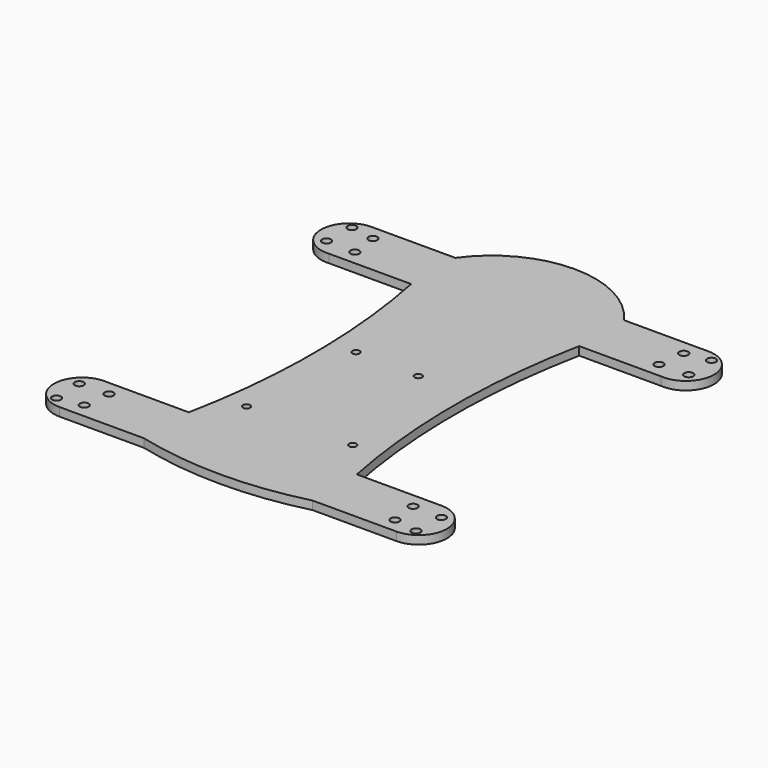
from build123d import *

# Parameters (mm, degrees)
F0_R     = 2
F0_R_2   = 1.651
F1_DEPTH = 3.81


with BuildPart() as f1:
    # F0 (on Top) → F1 (new body)
    with BuildSketch(Plane.XY):
        with BuildLine():
            ThreePointArc((37.946905, 88.097033), (-0.153095, 107.714284), (-38.253095, 88.097033))
            Line((-38.253095, 88.097033), (-37.946905, 88.097033))
            Line((-37.946905, 88.097033), (37.946905, 88.097033))
        make_face()
        Polygon((-37.946905, 88.097033), (-38.253095, 88.097033), (-37.946905, 62.742965), (37.946905, 62.742965), (37.946905, 88.097033), align=None)
        with BuildLine():
            Line((-37.946905, 62.742965), (-38.253095, 88.097033))
            Line((-38.253095, 88.097033), (-76.046905, 88.097033))
            ThreePointArc((-76.046905, 88.097033), (-88.735417, 74.856974), (-74.967762, 62.742965))
            Line((-74.967762, 62.742965), (-37.946905, 62.742965))
        make_face()
        with Locations((-81.778049, 69.815444)):
            Circle(F0_R, mode=Mode.SUBTRACT)
        with Locations((-68.661721, 69.381662)):
            Circle(F0_R, mode=Mode.SUBTRACT)
        with Locations((-70.195213, 81.486084)):
            Circle(F0_R, mode=Mode.SUBTRACT)
        with Locations((-81.191262, 83.413343)):
            Circle(F0_R, mode=Mode.SUBTRACT)
        with BuildLine():
            Line((76.046905, 88.097033), (37.946905, 88.097033))
            Line((37.946905, 88.097033), (37.946905, 62.742965))
            Line((37.946905, 62.742965), (74.967762, 62.742965))
            ThreePointArc((74.967762, 62.742965), (88.735417, 74.856974), (76.046905, 88.097033))
        make_face()
        with Locations((68.661721, 69.381662)):
            Circle(F0_R, mode=Mode.SUBTRACT)
        with Locations((81.778049, 69.815444)):
            Circle(F0_R, mode=Mode.SUBTRACT)
        with Locations((70.195213, 81.486084)):
            Circle(F0_R, mode=Mode.SUBTRACT)
        with Locations((81.191262, 83.413343)):
            Circle(F0_R, mode=Mode.SUBTRACT)
        with BuildLine():
            Line((-37.946905, -88.097033), (-37.946905, -62.742965))
            Line((-37.946905, -62.742965), (-74.967762, -62.742965))
            ThreePointArc((-74.967762, -62.742965), (-88.735417, -74.856974), (-76.046905, -88.097033))
            Line((-76.046905, -88.097033), (-37.946905, -88.097033))
        make_face()
        with Locations((-81.191262, -83.413343)):
            Circle(F0_R, mode=Mode.SUBTRACT)
        with Locations((-70.195213, -81.486084)):
            Circle(F0_R, mode=Mode.SUBTRACT)
        with Locations((-81.778049, -69.815444)):
            Circle(F0_R, mode=Mode.SUBTRACT)
        with Locations((-68.661721, -69.381662)):
            Circle(F0_R, mode=Mode.SUBTRACT)
        with BuildLine():
            Line((74.967762, -62.742965), (37.946905, -62.742965))
            Line((37.946905, -62.742965), (38.253095, -88.097033))
            Line((38.253095, -88.097033), (76.046905, -88.097033))
            ThreePointArc((76.046905, -88.097033), (88.735417, -74.856974), (74.967762, -62.742965))
        make_face()
        with Locations((70.195213, -81.486084)):
            Circle(F0_R, mode=Mode.SUBTRACT)
        with Locations((81.191262, -83.413343)):
            Circle(F0_R, mode=Mode.SUBTRACT)
        with Locations((68.661721, -69.381662)):
            Circle(F0_R, mode=Mode.SUBTRACT)
        with Locations((81.778049, -69.815444)):
            Circle(F0_R, mode=Mode.SUBTRACT)
        Polygon((37.946905, -62.742965), (-37.946905, -62.742965), (-37.946905, -88.097033), (37.946905, -88.097033), (38.253095, -88.097033), align=None)
        with BuildLine():
            Line((37.946905, -88.097033), (-37.946905, -88.097033))
            ThreePointArc((-37.946905, -88.097033), (0.153095, -92.851298), (38.253095, -88.097033))
            Line((38.253095, -88.097033), (37.946905, -88.097033))
        make_face()
        with BuildLine():
            Line((37.946905, 62.742965), (-37.946905, 62.742965))
            ThreePointArc((-37.946905, 62.742965), (-31.75, 0), (-37.946905, -62.742965))
            Line((-37.946905, -62.742965), (37.946905, -62.742965))
            ThreePointArc((37.946905, -62.742965), (31.75, 0), (37.946905, 62.742965))
        make_face()
        with Locations((-24.873505, -46.499295)):
            Circle(F0_R_2, mode=Mode.SUBTRACT)
        with Locations((22.802295, -46.141523)):
            Circle(F0_R_2, mode=Mode.SUBTRACT)
        with Locations((-20.59705, 9.981038)):
            Circle(F0_R_2, mode=Mode.SUBTRACT)
        with Locations((7.97795, 9.401235)):
            Circle(F0_R_2, mode=Mode.SUBTRACT)
    extrude(amount=F1_DEPTH)


solid = f1.part
